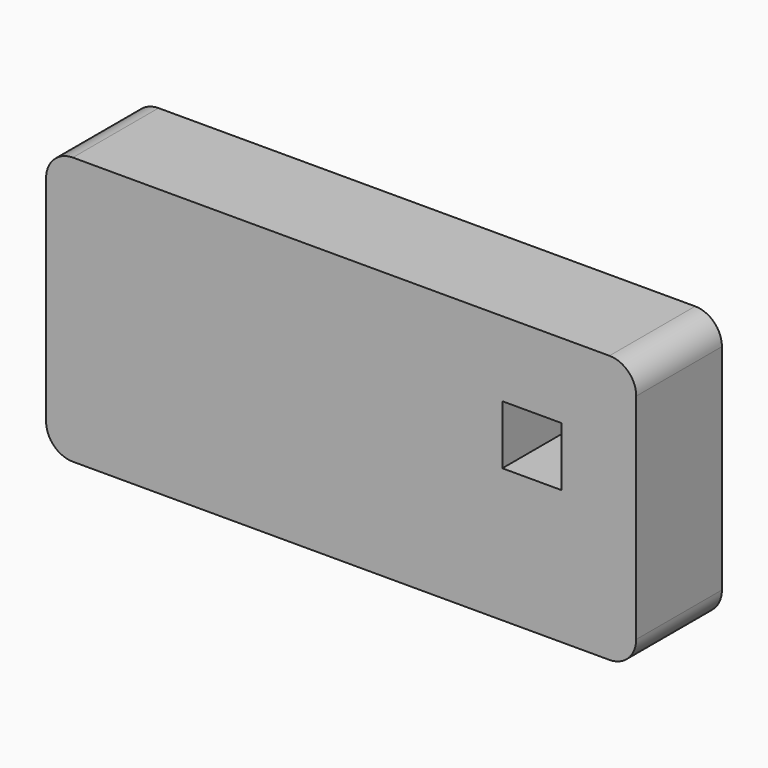
from build123d import *

# Parameters (mm, degrees)
F0_W     = 13.97
F0_H     = 13.999997
F1_DEPTH = 25.4


with BuildPart() as f1:
    # F0 (on Front) → F1 (new body)
    with BuildSketch(Plane.XZ):
        with BuildLine():
            Line((-133.604, 0), (-6.35, 0))
            ThreePointArc((-6.35, 0), (-1.859872, 1.859872), (0, 6.35))
            Line((0, 6.35), (0, 57.15))
            ThreePointArc((0, 57.15), (-1.859872, 61.640128), (-6.35, 63.5))
            Line((-6.35, 63.5), (-133.604, 63.5))
            ThreePointArc((-133.604, 63.5), (-138.094128, 61.640128), (-139.954, 57.15))
            Line((-139.954, 57.15), (-139.954, 6.35))
            ThreePointArc((-139.954, 6.35), (-138.094128, 1.859872), (-133.604, 0))
        make_face()
        with Locations((-24.765, 38.749999)):
            Rectangle(F0_W, F0_H, mode=Mode.SUBTRACT)
    extrude(amount=F1_DEPTH)


solid = f1.part
